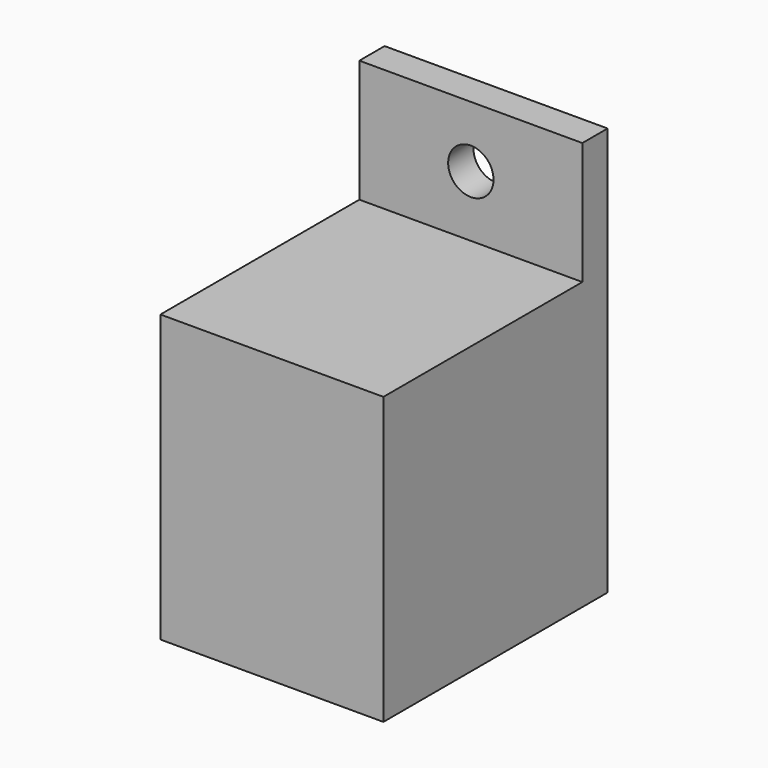
from build123d import *

# Parameters (mm, degrees)
F1_DEPTH = 28.702
F3_D     = 5.842


with BuildPart() as f1:
    # F0 (on Right) → F1 (new body)
    with BuildSketch(Plane.YZ):
        Polygon((-36.068, 0), (0, 0), (0, 52.578), (-4.064, 52.578), (-4.064, 36.83), (-36.068, 36.83), align=None)
        Polygon((-36.068, 0), (0, 0), (0, 52.578), (-4.064, 52.578), (-4.064, 36.83), (-36.068, 36.83), align=None)
    extrude(amount=F1_DEPTH)

    # F3 (through all)
    with Locations(Plane.XZ.offset(4.064)):
        with Locations((14.351, 44.704)):
            Hole(F3_D / 2)


solid = f1.part
